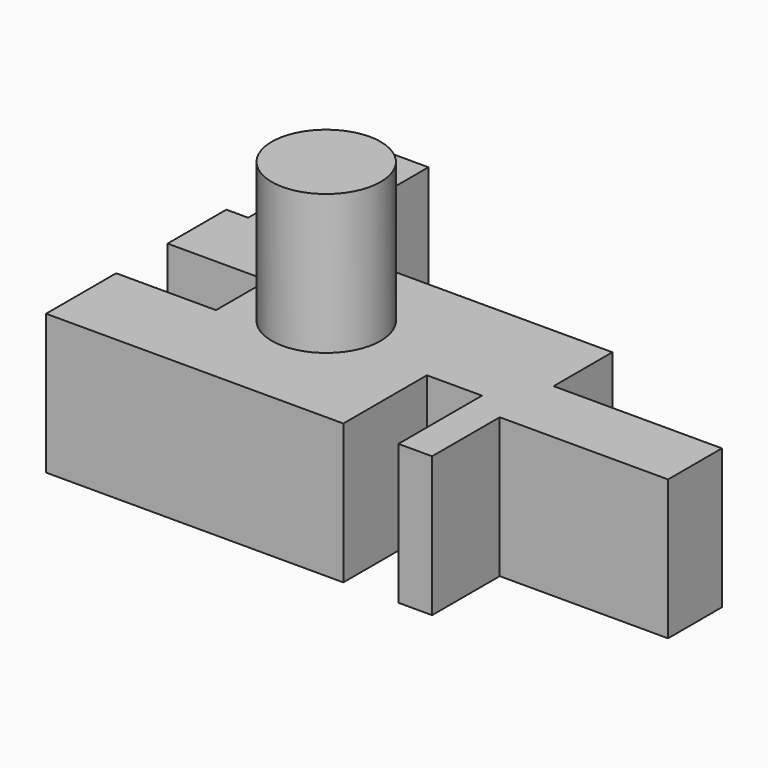
from build123d import *

# Parameters (mm, degrees)
F0_W     = 30.559375
F0_H     = 12.223751
F0_W_2   = 10.279063
F0_H_2   = 28.059065
F1_DEPTH = 25.4
F2_R     = 9.885565
F3_DEPTH = 25.4


with BuildPart() as f1:
    # F0 (on Top) → F1 (new body)
    with BuildSketch(Plane.XY):
        with Locations((85.357889, 21.461015)):
            Rectangle(F0_W, F0_H)
        with Locations((9.098359, 54.937422)):
            Rectangle(F0_W_2, F0_H_2)
        Polygon((0, 15.904766), (0, 0), (53.965077, 0), (53.965077, 18.960703), (63.966326, 18.960703), (63.966326, 0), (70.078202, 0), (70.078202, 15.34914), (70.078202, 27.572891), (70.078202, 40.90789), (14.237891, 40.90789), (3.958828, 40.90789), (0, 40.90789), (0, 27.572891), (18.127268, 27.572891), (18.127268, 15.904766), align=None)
    extrude(amount=F1_DEPTH)

    # F2 (on face) → F3 (join)
    with BuildSketch(Plane.XY.offset(25.4)):
        with Locations((32.363974, 23.111477)):
            Circle(F2_R)
    extrude(amount=F3_DEPTH)


solid = f1.part
